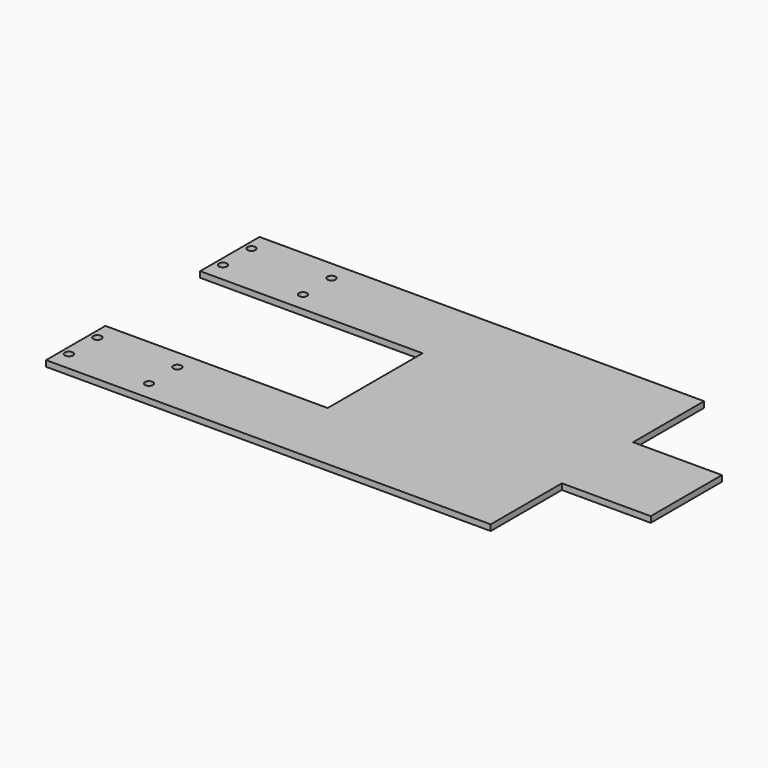
from build123d import *

# Parameters (mm, degrees)
F1_DEPTH = 4
F2_R     = 2.75
F3_DEPTH = 5


with BuildPart() as f1:
    # F0 (on Top) → F1 (new body)
    with BuildSketch(Plane.XY):
        Polygon((175.437126, 97.116617), (-124.562874, 97.116617), (-124.562874, 47.116617), (25.437126, 47.116617), (25.437126, -32.883383), (-124.562874, -32.883383), (-124.562874, -82.883383), (175.437126, -82.883383), (175.437126, -22.883383), (235.437126, -22.883383), (235.437126, 37.116617), (175.437126, 37.116617), align=None)
    extrude(amount=F1_DEPTH)

    # F2 (on face) → F3 (cut)
    with BuildSketch(Plane.XY.offset(4)):
        with Locations((-119.562874, 84.116617)):
            Circle(F2_R)
        with Locations((-65.562874, 84.116617)):
            Circle(F2_R)
        with Locations((-65.562874, 60.116617)):
            Circle(F2_R)
        with Locations((-119.562874, 60.116617)):
            Circle(F2_R)
        with Locations((-119.562874, -45.883383)):
            Circle(F2_R)
        with Locations((-119.562874, -69.883383)):
            Circle(F2_R)
        with Locations((-65.562874, -45.883383)):
            Circle(F2_R)
        with Locations((-65.562874, -69.883383)):
            Circle(F2_R)
    extrude(amount=-F3_DEPTH, mode=Mode.SUBTRACT)


solid = f1.part
